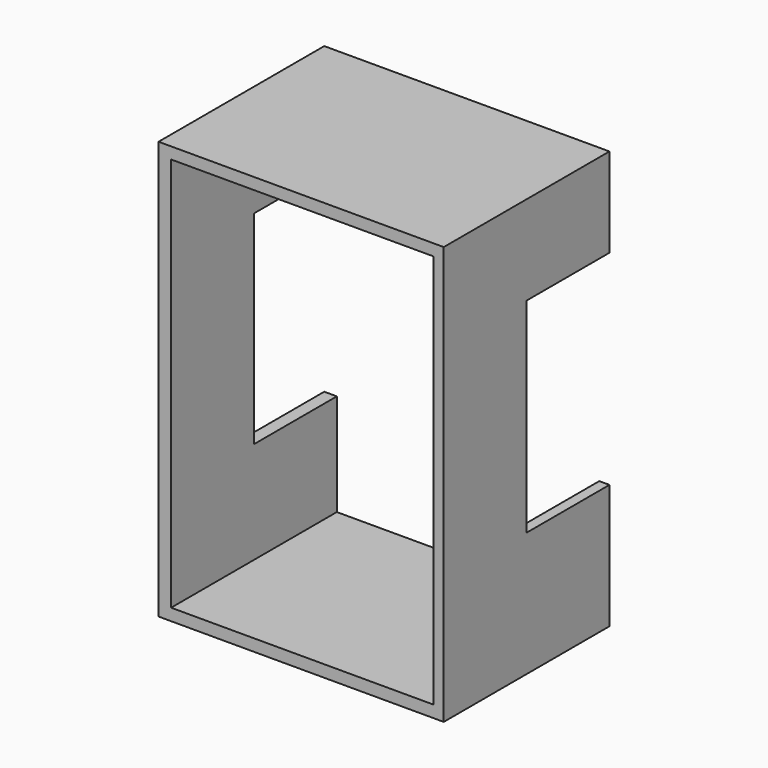
from build123d import *

# Parameters (mm, degrees)
F0_W     = 104.919739
F0_H     = 153.786629
F0_W_2   = 96.537981
F0_H_2   = 145.164899
F1_DEPTH = 76.2
F2_W     = 15.376352
F2_H     = 75.172882
F2_W_2   = 13.39756
F2_H_2   = 74.72885
F3_DEPTH = 38.1


with BuildPart() as f1:
    # F0 (on Front) → F1 (new body)
    with BuildSketch(Plane.XZ):
        with Locations((-17.963949, 0.530452)):
            Rectangle(F0_W, F0_H)
        with Locations((-17.530492, 0.597921)):
            Rectangle(F0_W_2, F0_H_2, mode=Mode.SUBTRACT)
    extrude(amount=F1_DEPTH)

    # F2 (on Front) → F3 (cut)
    with BuildSketch(Plane.XZ):
        with Locations((32.214891, 7.018349)):
            Rectangle(F2_W, F2_H)
        with Locations((-69.83231, 2.852077)):
            Rectangle(F2_W_2, F2_H_2)
    extrude(amount=F3_DEPTH, mode=Mode.SUBTRACT)


solid = f1.part
